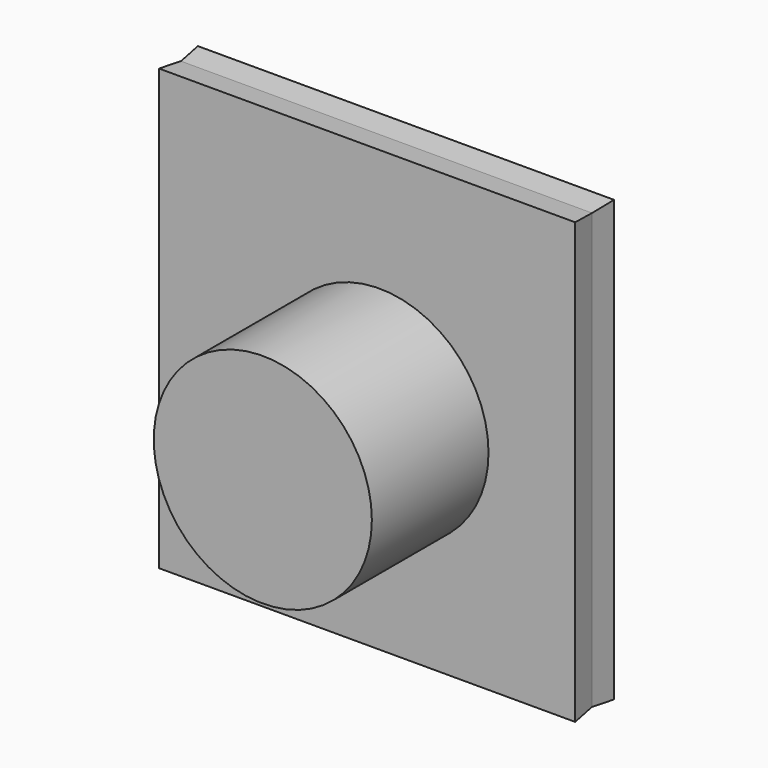
from build123d import *

# Parameters (mm, degrees)
F0_W     = 169.1423505545
F0_H     = 178.8771897554
F1_DEPTH = 10
F1_TAPER = -6
F3_D     = 6.35
F4_R     = 44.8702969829
F5_DEPTH = 60


with BuildPart() as f1:
    # F0 (on Front) → F1 (new body, symmetric)
    with BuildSketch(Plane.XZ):
        with Locations((43.3839261532, 70.992641151)):
            Rectangle(F0_W, F0_H)
        with Locations((43.3839261532, 70.992641151)):
            Rectangle(F0_W, F0_H)
    extrude(amount=F1_DEPTH, both=True, taper=F1_TAPER)

    # F3 (through all)
    with Locations(Plane.XZ.offset(10)):
        with Locations((48.48498106, 66.4365887642)):
            Hole(F3_D / 2)

    # F4 (on face) → F5 (join)
    with BuildSketch(Plane.XZ.offset(10)):
        with Locations((48.48498106, 66.4365887642)):
            Circle(F4_R)
    extrude(amount=F5_DEPTH)


solid = f1.part
